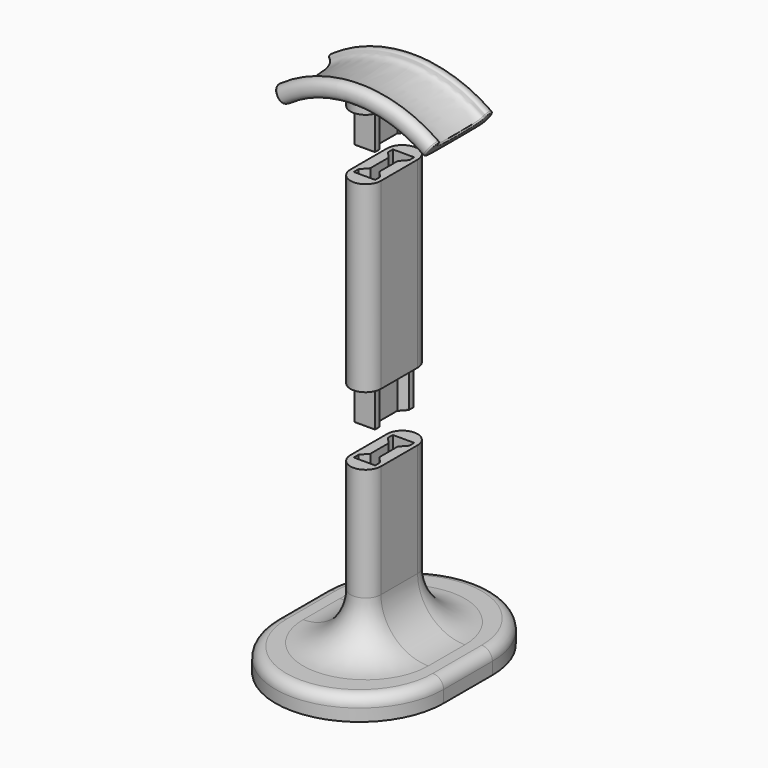
from build123d import *

# Parameters (mm, degrees)
PAD_DEPTH       = 15
PAD001_DEPTH    = 120
POCKET_DEPTH    = 25
FILLET_R        = 7
FILLET001_R     = 31
PAD002_DEPTH    = 24.7
PAD003_DEPTH    = 120
POCKET001_DEPTH = 25
FILLET005_R     = 1
PAD004_DEPTH    = 24.7
PAD005_DEPTH    = 5
FILLET002_R     = 1
FILLET003_R     = 1
FILLET004_R     = 1


with BuildPart() as supportbody:
    # Sketch → Pad (new body)
    with BuildSketch(Plane.XY):
        with BuildLine():
            ThreePointArc((55, 20), (0, 75), (-55, 20))
            Line((-55, 20), (-55, -20))
            ThreePointArc((-55, -20), (0, -75), (55, -20))
            Line((55, 20), (55, -20))
        make_face()
    extrude(amount=PAD_DEPTH)

    # Sketch001 → Pad001 (join)
    with BuildSketch(Plane.XY):
        with BuildLine():
            ThreePointArc((10, 15), (0, 25), (-10, 15))
            Line((-10, 15), (-10, -15))
            ThreePointArc((-10, -15), (0, -25), (10, -15))
            Line((10, 15), (10, -15))
        make_face()
    extrude(amount=PAD001_DEPTH)

    # Sketch002 (on Face12 of Pad001) → Pocket (cut)
    with BuildSketch(Plane.XY.offset(120)):
        Polygon((-7, 16), (-7, 12), (-3, 7.5), (-3, -7.5), (-7, -12), (-7, -16), (7, -16), (7, -12), (3, -7.5), (3, 7.5), (7, 12), (7, 16), align=None)
    extrude(amount=-POCKET_DEPTH, mode=Mode.SUBTRACT)

    # Fillet
    fillet_edges = [supportbody.edges().sort_by_distance(p)[0] for p in [
        (55, 0, 15),
    ]]
    fillet(fillet_edges, radius=FILLET_R)

    # Fillet001
    fillet001_edges = [supportbody.edges().sort_by_distance(p)[0] for p in [
        (10, 0, 15),
    ]]
    fillet(fillet001_edges, radius=FILLET001_R)


with BuildPart() as shaftbody:
    # Sketch004 → Pad002 (new body)
    with BuildSketch(Plane.XY.offset(140)):
        Polygon((-6.776393, 15.8), (-6.776393, 12.2), (-2.73, 7.630767), (-2.73, -7.630767), (-6.776393, -12.2), (-6.776393, -15.8), (6.776393, -15.8), (6.776393, -12.2), (2.73, -7.630767), (2.73, 7.630767), (6.776393, 12.2), (6.776393, 15.8), align=None)
    extrude(amount=PAD002_DEPTH)

    # Sketch005 (on Face14 of Pad002) → Pad003 (join)
    with BuildSketch(Plane.XY.offset(164.7)):
        with BuildLine():
            ThreePointArc((10, 15), (0, 25), (-10, 15))
            Line((-10, 15), (-10, -15))
            ThreePointArc((-10, -15), (0, -25), (10, -15))
            Line((10, 15), (10, -15))
        make_face()
    extrude(amount=PAD003_DEPTH)

    # Sketch006 (on Face5 of Pad003) → Pocket001 (cut)
    with BuildSketch(Plane.XY.offset(284.7)):
        Polygon((-7, 16), (-7, 12), (-3, 7.5), (-3, -7.5), (-7, -12), (-7, -16), (7, -16), (7, -12), (3, -7.5), (3, 7.5), (7, 12), (7, 16), align=None)
    extrude(amount=-POCKET001_DEPTH, mode=Mode.SUBTRACT)

    # Fillet005
    fillet005_edges = [shaftbody.edges().sort_by_distance(p)[0] for p in [
        (-6.776393, 14, 140),
        (-4.753197, 9.915383, 140),
        (-2.73, 0, 140),
        (-4.753197, -9.915383, 140),
        (-6.776393, -14, 140),
        (0, -15.8, 140),
        (6.776393, -14, 140),
        (4.753197, -9.915383, 140),
        (2.73, 0, 140),
        (4.753197, 9.915383, 140),
        (6.776393, 14, 140),
        (0, 15.8, 140),
    ]]
    fillet(fillet005_edges, radius=FILLET005_R)


with BuildPart() as holderbody:
    # Sketch007 → Pad004 (new body)
    with BuildSketch(Plane.XY.offset(300)):
        Polygon((-6.776393, 15.8), (-6.776393, 12.2), (-2.73, 7.630767), (-2.73, -7.630767), (-6.776393, -12.2), (-6.776393, -15.8), (6.776393, -15.8), (6.776393, -12.2), (2.73, -7.630767), (2.73, 7.630767), (6.776393, 12.2), (6.776393, 15.8), align=None)
    extrude(amount=PAD004_DEPTH)

    # Sketch008 (on Face14 of Pad004) → Pad005 (join)
    with BuildSketch(Plane.XY.offset(324.7)):
        with BuildLine():
            ThreePointArc((10, 15), (0, 25), (-10, 15))
            Line((-10, 15), (-10, -15))
            ThreePointArc((-10, -15), (0, -25), (10, -15))
            Line((10, 15), (10, -15))
        make_face()
    extrude(amount=PAD005_DEPTH)

    # AdditivePipe: sweep along a path in Sketch010
    with BuildLine(Plane.XZ) as additivepipe_path:
        ThreePointArc((45, 312.5), (0, 327.014609), (-45, 312.5))
    # Sketch009 → AdditivePipe (sweep)
    with BuildSketch(Plane.YZ):
        with BuildLine():
            add(Edge.make_bspline(
                [(-17.126667, 327.870233), (-21.64, 328.113613), (-27.08, 329.14028), (-26.01, 339.68028), (-17.01, 340.01028), (-21.18, 333.19028), (21.18, 333.19028), (17.01, 340.01028), (26.01, 339.68028), (27.08, 329.14028), (18.92, 327.60028), (0, 327.68), (-12.613333, 327.626853), (-17.126667, 327.870233)],
                knots=[0, 0, 0, 0, 0.090909, 0.181818, 0.272727, 0.363636, 0.454545, 0.545455, 0.636364, 0.727273, 0.818182, 0.909091, 1, 1, 1, 1], degree=3))
        make_face()
    sweep(path=additivepipe_path.line)

    # Fillet002
    fillet002_edges = [holderbody.edges().sort_by_distance(p)[0] for p in [
        (49.881236, 16.924625, 319.279494),
    ]]
    fillet(fillet002_edges, radius=FILLET002_R)

    # Fillet003
    fillet003_edges = [holderbody.edges().sort_by_distance(p)[0] for p in [
        (-49.881236, 16.924625, 319.279494),
    ]]
    fillet(fillet003_edges, radius=FILLET003_R)

    # Fillet004
    fillet004_edges = [holderbody.edges().sort_by_distance(p)[0] for p in [
        (-6.776393, 14, 300),
        (-4.753197, 9.915383, 300),
        (-2.73, 0, 300),
        (-4.753197, -9.915383, 300),
        (-6.776393, -14, 300),
        (0, -15.8, 300),
        (6.776393, -14, 300),
        (4.753197, -9.915383, 300),
        (2.73, 0, 300),
        (4.753197, 9.915383, 300),
        (6.776393, 14, 300),
        (0, 15.8, 300),
    ]]
    fillet(fillet004_edges, radius=FILLET004_R)


solid = Compound([supportbody.part, shaftbody.part, holderbody.part])
